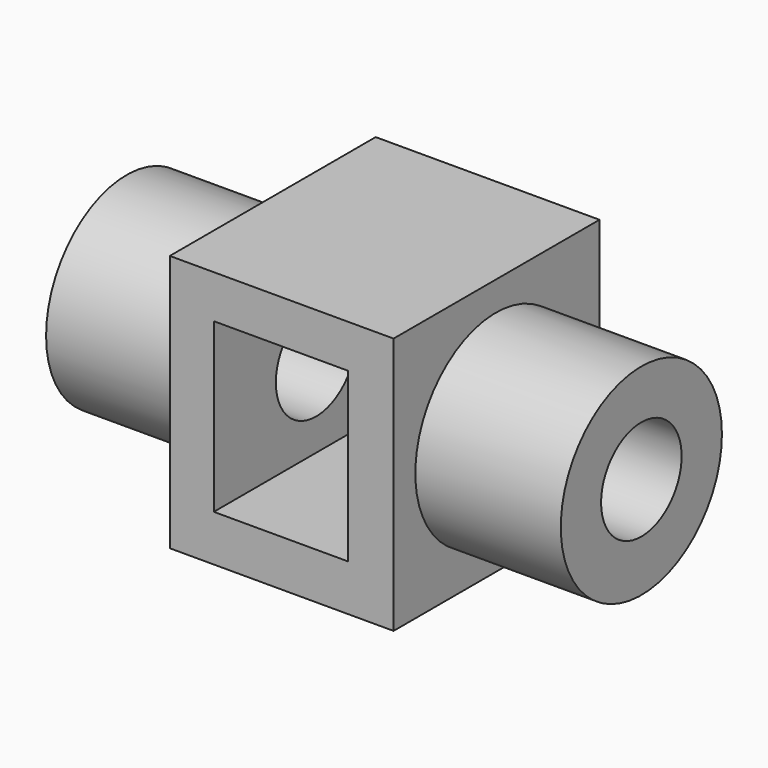
from build123d import *

# Parameters (mm, degrees)
F0_W      = 40
F0_H      = 46
F1_DEPTH  = 46
F3_W      = 24
F3_H      = 30
F4_DEPTH  = 46
F5_R      = 18
F6_DEPTH  = 26
F7_R      = 18
F8_DEPTH  = 26
F9_R      = 9
F10_DEPTH = 92


with BuildPart() as f1:
    # F0 (on Top) → F1 (new body)
    with BuildSketch(Plane.XY):
        with Locations((16.572512, -14.664019)):
            Rectangle(F0_W, F0_H)
    extrude(amount=F1_DEPTH)

    # F3 (on face) → F4 (cut)
    with BuildSketch(Plane.XZ.offset(37.664019)):
        with Locations((16.440791, 23.289474)):
            Rectangle(F3_W, F3_H)
    extrude(amount=-F4_DEPTH, mode=Mode.SUBTRACT)

    # F5 (on face) → F6 (join)
    with BuildSketch(Plane.YZ.offset(36.572512)):
        with Locations((-14.802633, 22.796053)):
            Circle(F5_R)
    extrude(amount=F6_DEPTH)

    # F7 (on face) → F8 (join)
    with BuildSketch(Plane(origin=(-3.427488, 0, 0), x_dir=(0, -1, 0), z_dir=(-1, 0, 0))):
        with Locations((14.802634, 23)):
            Circle(F7_R)
    extrude(amount=F8_DEPTH)

    # F9 (on face) → F10 (cut)
    with BuildSketch(Plane(origin=(-29.427488, 0, 0), x_dir=(0, -1, 0), z_dir=(-1, 0, 0))):
        with Locations((14.802634, 23)):
            Circle(F9_R)
    extrude(amount=-F10_DEPTH, mode=Mode.SUBTRACT)


solid = f1.part
